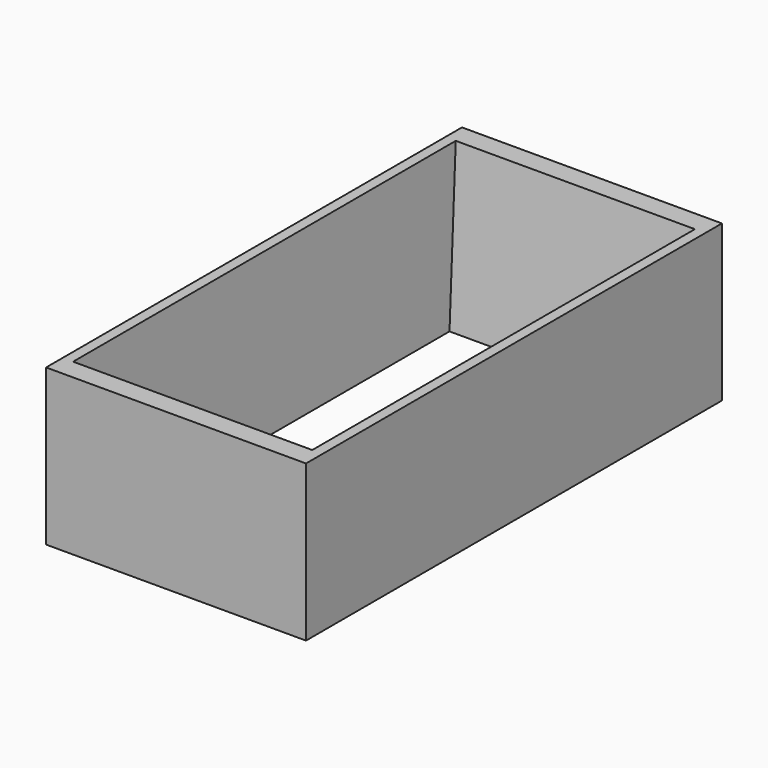
from build123d import *

# Parameters (mm, degrees)
SKETCH_W    = 25
SKETCH_H    = 50
PAD_DEPTH   = 15
SKETCH002_W = 21
SKETCH002_H = 42
SKETCH001_W = 23
SKETCH001_H = 46


with BuildPart() as part:
    # Sketch → Pad (new body)
    with BuildSketch(Plane.XY):
        Rectangle(SKETCH_W, SKETCH_H)
    extrude(amount=PAD_DEPTH)

    # Sketch002 (on Face5 of Pad) → SubtractiveLoft section 0
    with BuildSketch(Plane(origin=(0, 0, 0), x_dir=(1, 0, 0), z_dir=(0, 0, -1))):
        Rectangle(SKETCH002_W, SKETCH002_H)
    # Sketch001 (on Face6 of Pad) → SubtractiveLoft section 1
    with BuildSketch(Plane.XY.offset(15)):
        Rectangle(SKETCH001_W, SKETCH001_H)
    loft(mode=Mode.SUBTRACT)


solid = part.part
